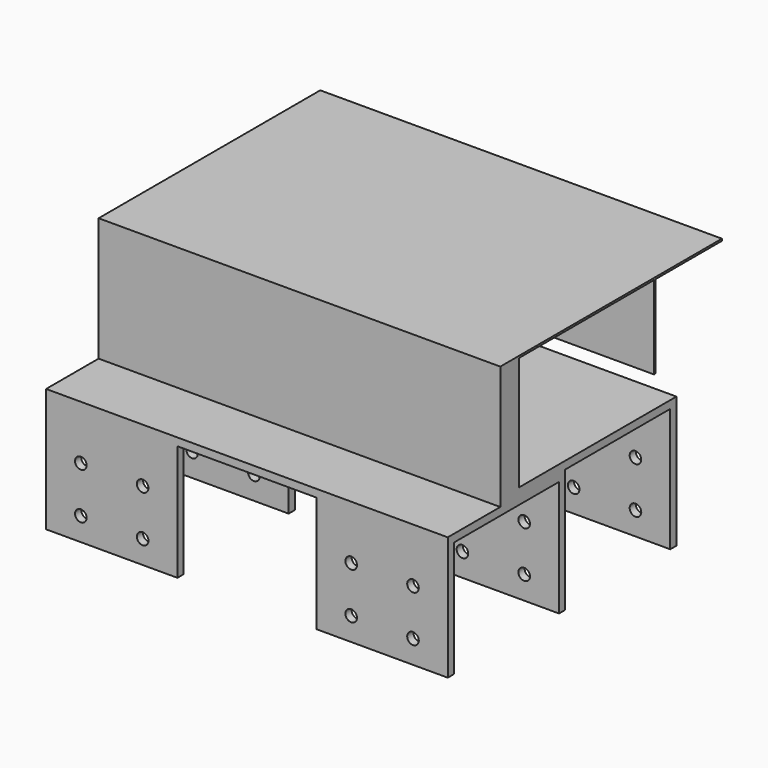
from build123d import *

# Parameters (mm, degrees)
F1_DEPTH = 165.1
F2_R     = 4.7625
F2_W     = 114.3
F2_H     = 95.25
F3_DEPTH = 281.7251


with BuildPart() as f1:
    # F0 (on Right) → F1 (new body, symmetric)
    with BuildSketch(Plane.YZ):
        Polygon((-73.025, -6.35), (-73.025, -107.95), (-66.675, -107.95), (-66.675, -12.7), (-12.7, -12.7), (-12.7, 95.25), (-19.05, 95.25), (-19.05, -6.35), align=None)
        Polygon((-12.7, 95.25), (-12.7, -12.7), (41.275, -12.7), (41.275, -107.95), (47.625, -107.95), (47.625, -6.35), (-6.35, -6.35), (-6.35, 95.25), align=None)
        Polygon((0, 95.25), (-6.35, 95.25), (-6.35, -6.35), (47.625, -6.35), (155.575, -6.35), (155.575, -107.95), (161.925, -107.95), (161.925, 0), (0, 0), (0, 93.6625), align=None)
        Polygon((138.8491, 95.25), (0, 95.25), (0, 93.6625), (138.8491, 93.6625), (138.8491, 25.4), (140.4366, 25.4), (140.4366, 93.6625), (208.6991, 93.6625), (208.6991, 95.25), align=None)
    extrude(amount=F1_DEPTH, both=True)

    # F2 (on face) → F3 (cut, through all)
    with BuildSketch(Plane.XZ.offset(73.025)):
        with Locations((-136.525, -88.9)):
            Circle(F2_R)
        with Locations((136.525, -88.9)):
            Circle(F2_R)
        with Locations((136.525, -50.8)):
            Circle(F2_R)
        with Locations((85.725, -88.9)):
            Circle(F2_R)
        with Locations((85.725, -50.8)):
            Circle(F2_R)
        with Locations((-136.525, -50.8)):
            Circle(F2_R)
        with Locations((-85.725, -88.9)):
            Circle(F2_R)
        with Locations((-85.725, -50.8)):
            Circle(F2_R)
        with Locations((0, -60.325)):
            Rectangle(F2_W, F2_H)
    extrude(amount=-F3_DEPTH, mode=Mode.SUBTRACT)


solid = f1.part
